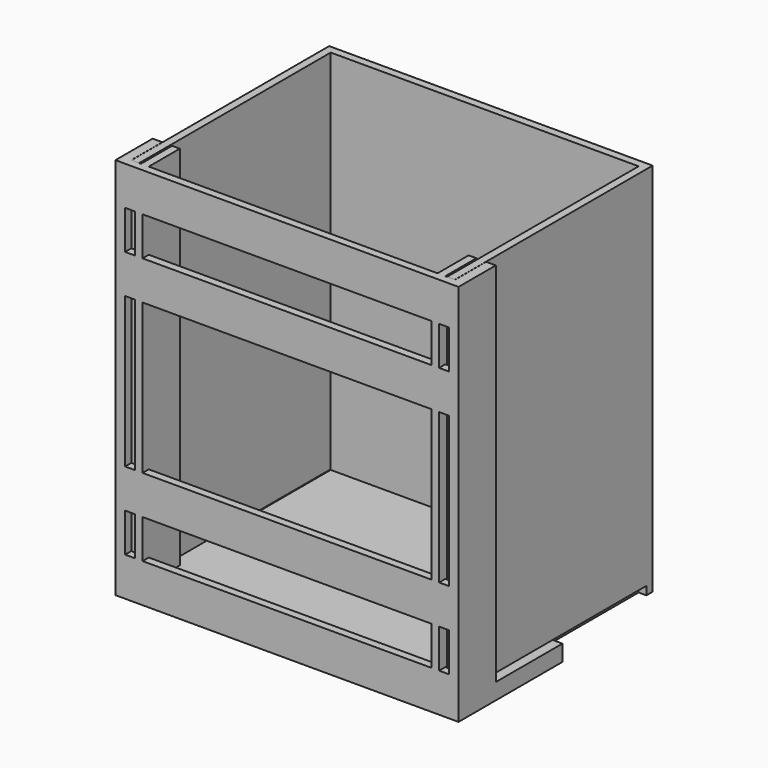
from build123d import *

# Parameters (mm, degrees)
F0_W          = 100
F0_H          = 116
F1_DEPTH      = 2.4
F2_W          = 2.4
F2_H          = 113.4
F3_DEPTH      = 74
F4_W          = 95.2
F4_H          = 2.4
F5_DEPTH      = 36.25
F6_W          = 106.085
F6_H          = 12
F7_DEPTH      = 2.4
F8_W          = 3
F8_H          = 118.4
F9_DEPTH      = 12
F9_DEPTH_BACK = 2.4
F8_W_2        = 2.4
F8_H_2        = 113.4
F10_W         = 106.085
F10_H         = 5
F11_DEPTH     = 37.75


with BuildPart() as f1:
    # F0 (on Front) → F1 (new body)
    with BuildSketch(Plane.XZ):
        with Locations((0, 58)):
            Rectangle(F0_W, F0_H)
    extrude(amount=-F1_DEPTH)

    # F2 (on face) → F3 (join)
    with BuildSketch(Plane.XZ):
        with Locations((-48.8, 59.3)):
            Rectangle(F2_W, F2_H)
        with Locations((48.8, 59.3)):
            Rectangle(F2_W, F2_H)
    extrude(amount=F3_DEPTH)

    # F4 (on face) → F5 (join)
    with BuildSketch(Plane.XZ):
        with Locations((0, 1.2)):
            Rectangle(F4_W, F4_H)
    extrude(amount=F5_DEPTH)


with BuildPart() as f7:
    # F6 (on face) → F7 (new body)
    with BuildSketch(Plane.XZ.offset(74)):
        with Locations((0, 110)):
            Rectangle(F6_W, F6_H)
        with Locations((0, 86)):
            Rectangle(F6_W, F6_H)
        with Locations((0, 3.6)):
            Rectangle(F6_W, F6_H)
        with Locations((0, 27.6)):
            Rectangle(F6_W, F6_H)
    extrude(amount=F7_DEPTH)



with BuildPart() as f9:
    # F8 (on face) → F9 (new body, two sides)
    with BuildSketch(Plane.XZ.offset(74)) as f9_sk:
        with Locations((51.5425, 56.8)):
            Rectangle(F8_W, F8_H)
    extrude(amount=-F9_DEPTH)
    extrude(f9_sk.sketch, amount=F9_DEPTH_BACK)


with BuildPart() as f9b:
    # F8 (on face) → F9, piece 2 (new body, two sides)
    with BuildSketch(Plane.XZ.offset(74)) as f9_2_sk:
        with Locations((-51.5425, 56.8)):
            Rectangle(F8_W, F8_H)
    extrude(amount=-F9_DEPTH)
    extrude(f9_2_sk.sketch, amount=F9_DEPTH_BACK)


with BuildPart() as f9c:
    # F8 (on face) → F9, piece 3 (new body, two sides)
    with BuildSketch(Plane.XZ.offset(74)) as f9_3_sk:
        with Locations((45.8425, 59.3)):
            Rectangle(F8_W_2, F8_H_2)
    extrude(amount=-F9_DEPTH)
    extrude(f9_3_sk.sketch, amount=F9_DEPTH_BACK)


with BuildPart() as f9d:
    # F8 (on face) → F9, piece 4 (new body, two sides)
    with BuildSketch(Plane.XZ.offset(74)) as f9_4_sk:
        with Locations((-45.8425, 59.3)):
            Rectangle(F8_W_2, F8_H_2)
    extrude(amount=-F9_DEPTH)
    extrude(f9_4_sk.sketch, amount=F9_DEPTH_BACK)


with BuildPart() as f7_1:
    add(f7.part)

    add(f9.part)  # F11 merges F9

    add(f9b.part)  # F11 merges F9b

    add(f9c.part)  # F11 merges F9c

    add(f9d.part)  # F11 merges F9d
    # F10 (on face) → F11 (join, through all)
    with BuildSketch(Plane.XZ.offset(74)):
        with Locations((0, 0.1)):
            Rectangle(F10_W, F10_H)
    extrude(amount=-F11_DEPTH)


solid = Compound([f1.part, f7_1.part])
